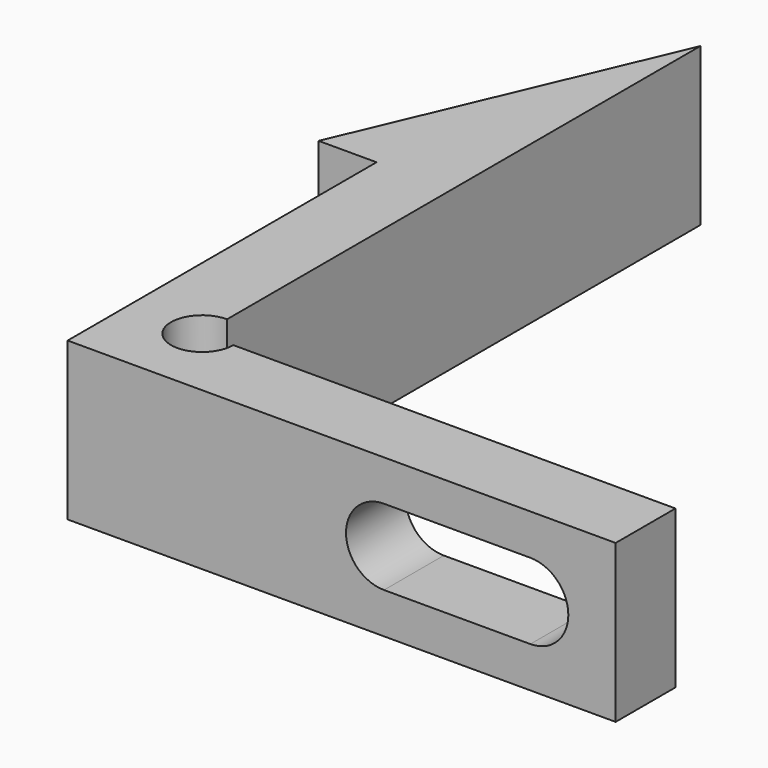
from build123d import *

# Parameters (mm, degrees)
F1_DEPTH = 12.65
F3_DEPTH = 25


with BuildPart() as f1:
    # F0 (on Top) → F1 (new body)
    with BuildSketch(Plane.XY):
        with BuildLine():
            Line((38, 0), (2.5, 0))
            ThreePointArc((2.5, 0), (-1.767767, -1.767767), (0, 2.5))
            Line((0, 2.5), (0, 50))
            Line((0, 50), (-10.65, 25))
            Line((-10.65, 25), (-6, 25))
            Line((-6, 25), (-6, -6))
            Line((-6, -6), (38, -6))
            Line((38, -6), (38, 0))
        make_face()
    extrude(amount=F1_DEPTH)

    # F2 (on Front) → F3 (cut)
    with BuildSketch(Plane.XZ):
        with BuildLine():
            Line((31.15, 9.375), (19.4, 9.375))
            ThreePointArc((19.4, 9.375), (16.35, 6.325), (19.4, 3.275))
            Line((19.4, 3.275), (31.15, 3.275))
            ThreePointArc((31.15, 3.275), (34.2, 6.325), (31.15, 9.375))
        make_face()
    extrude(amount=F3_DEPTH, mode=Mode.SUBTRACT)


solid = f1.part
